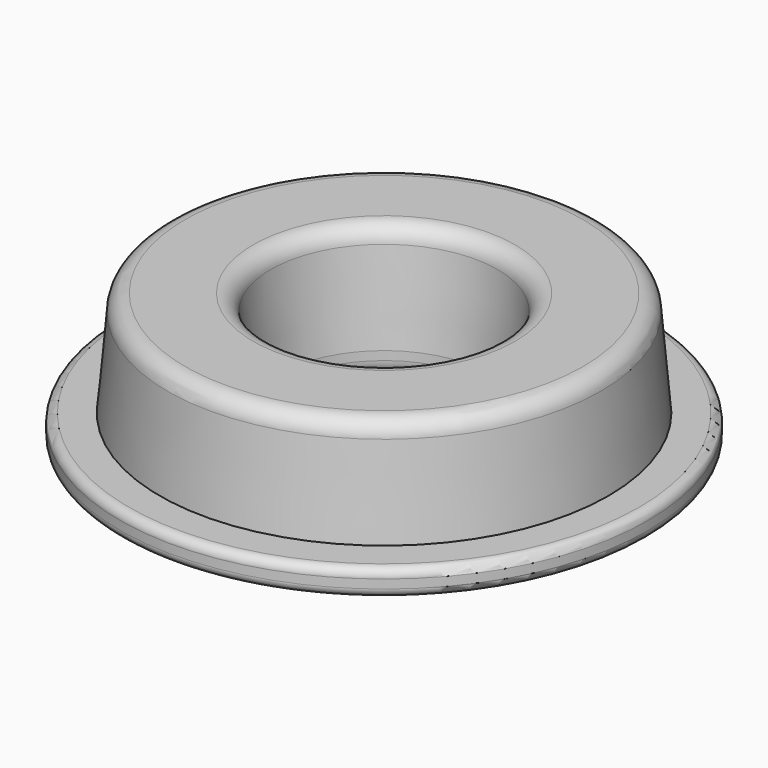
from build123d import *

# Parameters (mm, degrees)
F0_R     = 25.5
F0_R_2   = 12
F1_DEPTH = 12
F1_TAPER = 5
F2_R     = 30
F2_R_2   = 12
F3_DEPTH = 3
F4_R     = 2
F5_R     = 1


with BuildPart() as f1:
    # F0 (on Top) → F1 (new body)
    with BuildSketch(Plane.XY):
        Circle(F0_R)
        Circle(F0_R_2, mode=Mode.SUBTRACT)
    extrude(amount=F1_DEPTH, taper=F1_TAPER)

    # F2 (on Top) → F3 (join)
    with BuildSketch(Plane.XY):
        Circle(F2_R)
        Circle(F2_R_2, mode=Mode.SUBTRACT)
    extrude(amount=-F3_DEPTH)

    # F4
    f4_edges = [f1.edges().sort_by_distance(p)[0] for p in [
        (-24.450136, 0, 12),
        (-12, 0, -3),
        (-13.049864, 0, 12),
    ]]
    fillet(f4_edges, radius=F4_R)

    # F5
    f5_edges = [f1.edges().sort_by_distance(p)[0] for p in [
        (-30, 0, -3),
        (-30, 0, 0),
    ]]
    fillet(f5_edges, radius=F5_R)


solid = f1.part
